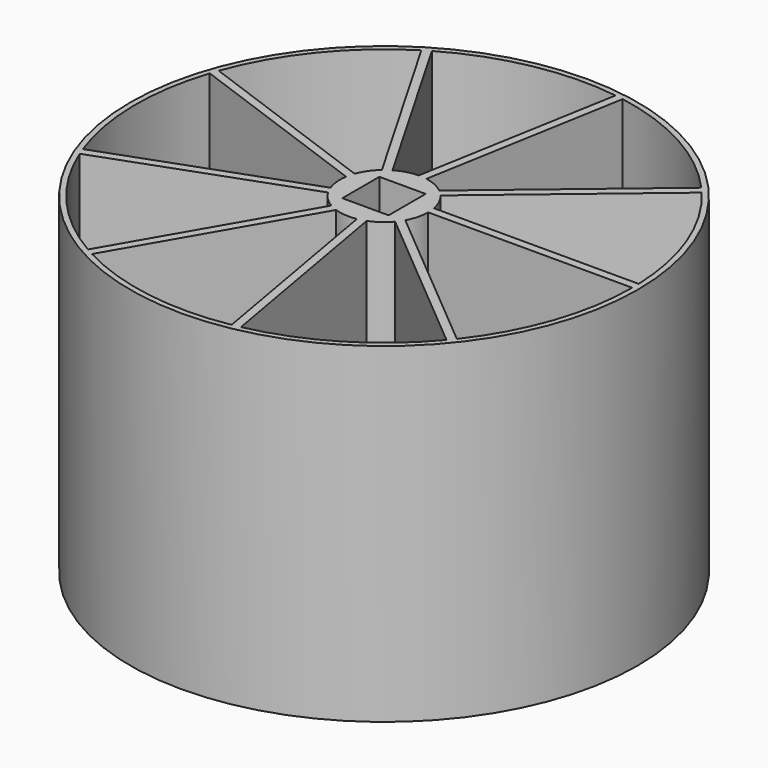
from build123d import *

# Parameters (mm, degrees)
CYLINDER021_R          = 7
CYLINDER021_DEPTH      = 2
TUBE017_R              = 60
TUBE017_R_2            = 46
TUBE017_DEPTH          = 60
BOX028_W               = 8.4
BOX028_H               = 8.4
BOX028_DEPTH           = 60
CYLINDER020_R          = 8
CYLINDER020_DEPTH      = 60
TUBE016_R              = 46
TUBE016_R_2            = 45
TUBE016_DEPTH          = 60
BOX029_W               = 50
BOX029_H               = 1.5
BOX029_DEPTH           = 60
BOX029_PLACEMENT_ANGLE = 40
BOX030_W               = 50
BOX030_H               = 1.5
BOX030_DEPTH           = 60
BOX030_PLACEMENT_ANGLE = 80
BOX031_W               = 50
BOX031_H               = 1.5
BOX031_DEPTH           = 60
BOX031_PLACEMENT_ANGLE = 120
BOX032_W               = 50
BOX032_H               = 1.5
BOX032_DEPTH           = 60
BOX032_PLACEMENT_ANGLE = 160
BOX033_W               = 50
BOX033_H               = 1.5
BOX033_DEPTH           = 60
BOX033_PLACEMENT_ANGLE = 200
BOX034_W               = 50
BOX034_H               = 1.5
BOX034_DEPTH           = 60
BOX034_PLACEMENT_ANGLE = 40
BOX035_W               = 50
BOX035_H               = 1.5
BOX035_DEPTH           = 60
BOX035_PLACEMENT_ANGLE = 280
BOX036_W               = 50
BOX036_H               = 1.5
BOX036_DEPTH           = 60
BOX036_PLACEMENT_ANGLE = 240
BOX037_W               = 50
BOX037_H               = 1.5
BOX037_DEPTH           = 60
BOX037_PLACEMENT_ANGLE = 200
BOX026_W               = 50
BOX026_H               = 1.5
BOX026_DEPTH           = 60


with BuildPart() as cone005:
    # Cone005 → Cone005 (revolve)
    with BuildSketch(Plane(origin=(0, 0, 2), x_dir=(1, 0, 0), z_dir=(0, -1, 0))):
        Polygon((0, 0), (7, 0), (4, 10), (0, 10), align=None)
    revolve(axis=Axis((0, 0, 2), (0, 0, 1)))


with BuildPart() as cylinder021:
    # Cylinder021 → Cylinder021 (new body)
    with BuildSketch(Plane.XY):
        Circle(CYLINDER021_R)
    extrude(amount=CYLINDER021_DEPTH)


with BuildPart() as tube017:
    # Tube017 → Tube017 (new body)
    with BuildSketch(Plane.XY):
        Circle(TUBE017_R)
        Circle(TUBE017_R_2, mode=Mode.SUBTRACT)
    extrude(amount=TUBE017_DEPTH)


with BuildPart() as fusion009008:
    # Box028 → Box028 (new body)
    with BuildSketch(Plane(origin=(-4.2, -4.2, 0), x_dir=(1, 0, 0), z_dir=(0, 0, 1))):
        with Locations((4.2, 4.2)):
            Rectangle(BOX028_W, BOX028_H)
    extrude(amount=BOX028_DEPTH)

    # Fusion009008: union Cone005, Cylinder021, Tube017
    add(cone005.part)
    add(cylinder021.part)
    add(tube017.part)


with BuildPart() as cylinder020:
    # Cylinder020 → Cylinder020 (new body)
    with BuildSketch(Plane.XY):
        Circle(CYLINDER020_R)
    extrude(amount=CYLINDER020_DEPTH)


with BuildPart() as tube016:
    # Tube016 → Tube016 (new body)
    with BuildSketch(Plane.XY):
        Circle(TUBE016_R)
        Circle(TUBE016_R_2, mode=Mode.SUBTRACT)
    extrude(amount=TUBE016_DEPTH)


with BuildPart() as cone006:
    # Cone006 → Cone006 (revolve)
    with BuildSketch(Plane.XZ):
        Polygon((0, 0), (9, 0), (4, 30), (0, 30), align=None)
    revolve(axis=Axis((0, 0, 0), (0, 0, 1)))


with BuildPart() as cube029:
    # Box029 → Box029 (new body)
    with BuildSketch(Plane.XY):
        with Locations((25, 0.75)):
            Rectangle(BOX029_W, BOX029_H)
    extrude(amount=BOX029_DEPTH)


with BuildPart() as cube029_1:
    # Box029 placement: moved
    add(cube029.part.rotate(Axis((0, 0, 0), (0, 0, 1)), BOX029_PLACEMENT_ANGLE))


with BuildPart() as cube030:
    # Box030 → Box030 (new body)
    with BuildSketch(Plane.XY):
        with Locations((25, 0.75)):
            Rectangle(BOX030_W, BOX030_H)
    extrude(amount=BOX030_DEPTH)


with BuildPart() as cube030_1:
    # Box030 placement: moved
    add(cube030.part.rotate(Axis((0, 0, 0), (0, 0, 1)), BOX030_PLACEMENT_ANGLE))


with BuildPart() as cube031:
    # Box031 → Box031 (new body)
    with BuildSketch(Plane.XY):
        with Locations((25, 0.75)):
            Rectangle(BOX031_W, BOX031_H)
    extrude(amount=BOX031_DEPTH)


with BuildPart() as cube031_1:
    # Box031 placement: moved
    add(cube031.part.rotate(Axis((0, 0, 0), (0, 0, 1)), BOX031_PLACEMENT_ANGLE))


with BuildPart() as cube032:
    # Box032 → Box032 (new body)
    with BuildSketch(Plane.XY):
        with Locations((25, 0.75)):
            Rectangle(BOX032_W, BOX032_H)
    extrude(amount=BOX032_DEPTH)


with BuildPart() as cube032_1:
    # Box032 placement: moved
    add(cube032.part.rotate(Axis((0, 0, 0), (0, 0, 1)), BOX032_PLACEMENT_ANGLE))


with BuildPart() as cube033:
    # Box033 → Box033 (new body)
    with BuildSketch(Plane.XY):
        with Locations((25, 0.75)):
            Rectangle(BOX033_W, BOX033_H)
    extrude(amount=BOX033_DEPTH)


with BuildPart() as cube033_1:
    # Box033 placement: moved
    add(cube033.part.rotate(Axis((0, 0, 0), (0, 0, 1)), BOX033_PLACEMENT_ANGLE))


with BuildPart() as cube034:
    # Box034 → Box034 (new body)
    with BuildSketch(Plane.XY):
        with Locations((25, 0.75)):
            Rectangle(BOX034_W, BOX034_H)
    extrude(amount=BOX034_DEPTH)


with BuildPart() as cube034_1:
    # Box034 placement: moved
    add(cube034.part.rotate(Axis((0, 0, 0), (0, 0, -1)), BOX034_PLACEMENT_ANGLE))


with BuildPart() as cube035:
    # Box035 → Box035 (new body)
    with BuildSketch(Plane.XY):
        with Locations((25, 0.75)):
            Rectangle(BOX035_W, BOX035_H)
    extrude(amount=BOX035_DEPTH)


with BuildPart() as cube035_1:
    # Box035 placement: moved
    add(cube035.part.rotate(Axis((0, 0, 0), (0, 0, 1)), BOX035_PLACEMENT_ANGLE))


with BuildPart() as cube036:
    # Box036 → Box036 (new body)
    with BuildSketch(Plane.XY):
        with Locations((25, 0.75)):
            Rectangle(BOX036_W, BOX036_H)
    extrude(amount=BOX036_DEPTH)


with BuildPart() as cube036_1:
    # Box036 placement: moved
    add(cube036.part.rotate(Axis((0, 0, 0), (0, 0, 1)), BOX036_PLACEMENT_ANGLE))


with BuildPart() as cube037:
    # Box037 → Box037 (new body)
    with BuildSketch(Plane.XY):
        with Locations((25, 0.75)):
            Rectangle(BOX037_W, BOX037_H)
    extrude(amount=BOX037_DEPTH)


with BuildPart() as cube037_1:
    # Box037 placement: moved
    add(cube037.part.rotate(Axis((0, 0, 0), (0, 0, 1)), BOX037_PLACEMENT_ANGLE))


with BuildPart() as obj1:
    # Box026 → Box026 (new body)
    with BuildSketch(Plane.XY):
        with Locations((25, 0.75)):
            Rectangle(BOX026_W, BOX026_H)
    extrude(amount=BOX026_DEPTH)

    # Fusion009009: union Cylinder020, Tube016, Cone006, Cube029, Cube030, Cube031, Cube032, Cube033, Cube034, Cube035, Cube036, Cube037
    add(cylinder020.part)
    add(tube016.part)
    add(cone006.part)
    add(cube029_1.part)
    add(cube030_1.part)
    add(cube031_1.part)
    add(cube032_1.part)
    add(cube033_1.part)
    add(cube034_1.part)
    add(cube035_1.part)
    add(cube036_1.part)
    add(cube037_1.part)

    # Cut009008: cut Fusion009008
    add(fusion009008.part, mode=Mode.SUBTRACT)


solid = obj1.part
